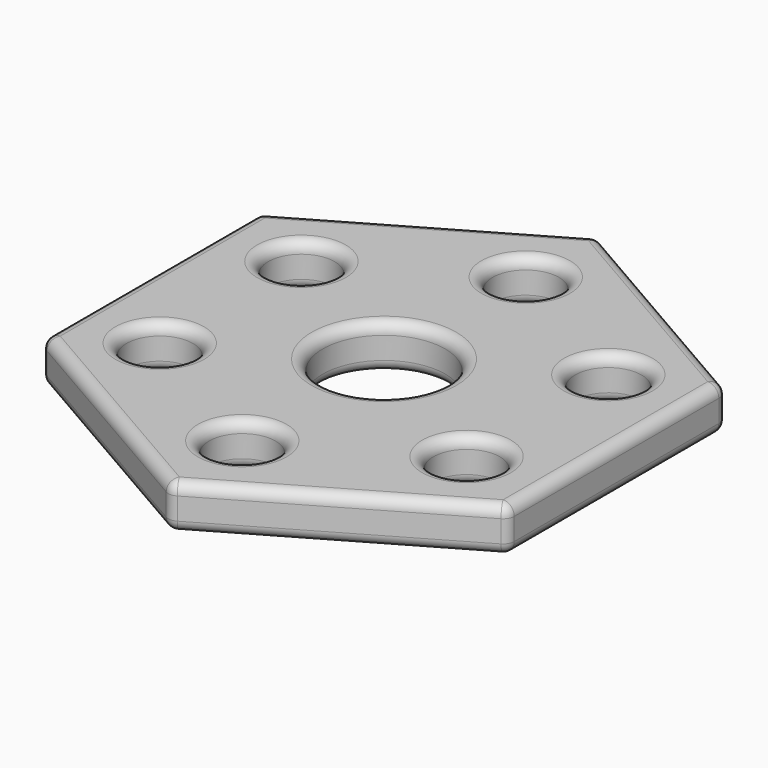
from build123d import *

# Parameters (mm, degrees)
F0_R     = 6
F0_R_2   = 11.05
F1_DEPTH = 8
F2_R     = 2


with BuildPart() as f1:
    # F0 (on Top) → F1 (new body)
    with BuildSketch(Plane.XY):
        Polygon((-42, 24.248711), (-42, -24.248711), (0, -48.497423), (42, -24.248711), (42, 24.248711), (0, 48.497423), align=None)
        with Locations((-27.712813, -16)):
            Circle(F0_R, mode=Mode.SUBTRACT)
        with Locations((0, -32)):
            Circle(F0_R, mode=Mode.SUBTRACT)
        with Locations((27.712813, -16)):
            Circle(F0_R, mode=Mode.SUBTRACT)
        with Locations((-27.712813, 16)):
            Circle(F0_R, mode=Mode.SUBTRACT)
        Circle(F0_R_2, mode=Mode.SUBTRACT)
        with Locations((27.712813, 16)):
            Circle(F0_R, mode=Mode.SUBTRACT)
        with Locations((0, 32)):
            Circle(F0_R, mode=Mode.SUBTRACT)
    extrude(amount=F1_DEPTH)

    # F2
    f2_edges = [f1.edges().sort_by_distance(p)[0] for p in [
        (-42, 0, 8),
        (-21, -36.373067, 8),
        (21, -36.373067, 8),
        (42, 0, 8),
        (21, 36.373067, 8),
        (-21, 36.373067, 8),
        (-33.712813, -16, 8),
        (-6, -32, 8),
        (21.712813, -16, 8),
        (-33.712813, 16, 8),
        (-11.05, 0, 8),
        (21.712813, 16, 8),
        (-6, 32, 8),
        (-42, 0, 0),
        (-21, -36.373067, 0),
        (21, -36.373067, 0),
        (42, 0, 0),
        (21, 36.373067, 0),
        (-21, 36.373067, 0),
        (-33.712813, -16, 0),
        (-6, -32, 0),
        (21.712813, -16, 0),
        (-33.712813, 16, 0),
        (-11.05, 0, 0),
        (21.712813, 16, 0),
        (-6, 32, 0),
        (0, -48.497423, 4),
        (42, -24.248711, 4),
        (42, 24.248711, 4),
        (0, 48.497423, 4),
        (-42, 24.248711, 4),
        (-42, -24.248711, 4),
    ]]
    fillet(f2_edges, radius=F2_R)


solid = f1.part
